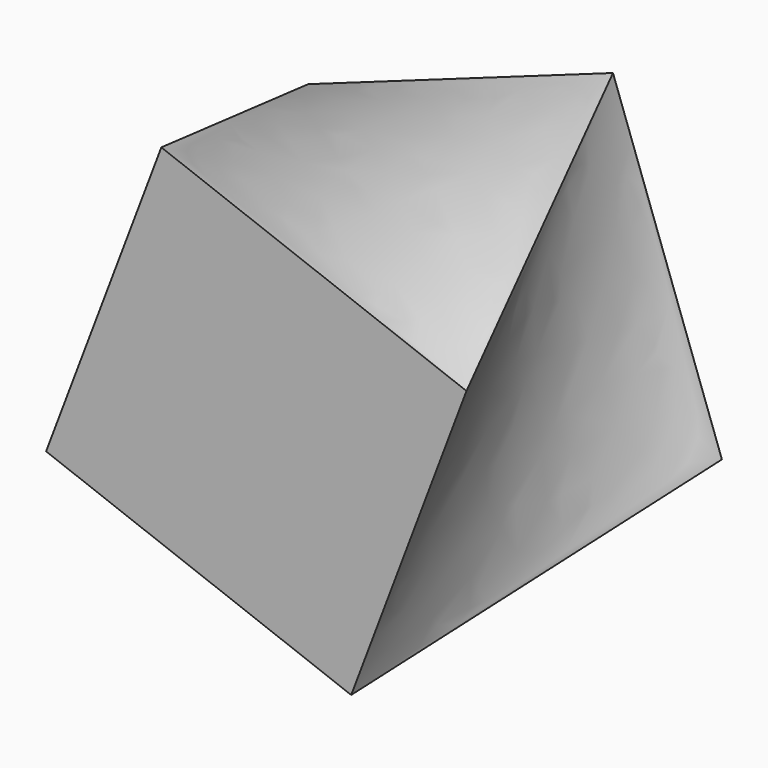
from build123d import *


with BuildPart() as f3:
    # F0 (on Front) → F3 section 0
    with BuildSketch(Plane.XZ):
        Polygon((64.970709, -30.754611), (30.754611, 64.970709), (-64.970709, 30.754611), (-30.754611, -64.970709), align=None)
    # F2 (on offset) → F3 section 1
    with BuildSketch(Plane.XZ.offset(101.6)):
        Polygon((66.015854, 29.813612), (-29.813612, 66.015854), (-66.015854, -29.813612), (29.813612, -66.015854), align=None)
    loft()


solid = f3.part
